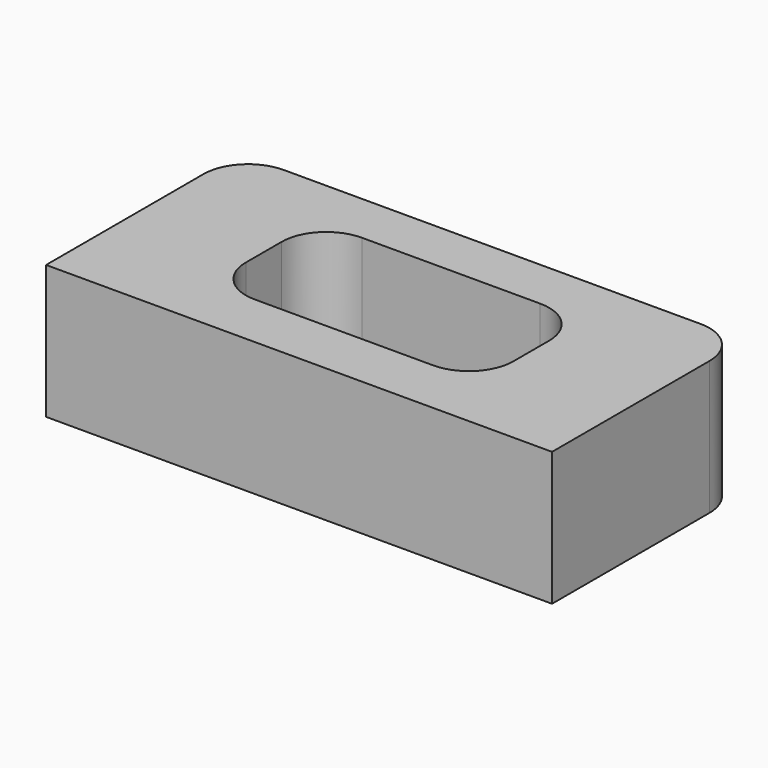
from build123d import *

# Parameters (mm, degrees)
F0_R     = 4
F1_DEPTH = 15
F2_DEPTH = 12


with BuildPart() as f1:
    # F0 (on Top) → F1 (new body)
    with BuildSketch(Plane.XY):
        with BuildLine():
            Line((0, 15), (0, 20.764023))
            Line((0, 20.764023), (-23.369339, 20.764023))
            ThreePointArc((-23.369339, 20.764023), (-26.904873, 19.299557), (-28.369339, 15.764023))
            Line((-28.369339, 15.764023), (-28.369339, -6.304249))
            Line((-28.369339, -6.304249), (0, -6.304249))
            Line((0, -6.304249), (0, 0))
            Line((0, 0), (-10, 0))
            ThreePointArc((-10, 0), (-13.535534, 1.464466), (-15, 5))
            Line((-15, 5), (-15, 10))
            ThreePointArc((-15, 10), (-13.535534, 13.535534), (-10, 15))
            Line((-10, 15), (0, 15))
        make_face()
        with Locations((-22, 0)):
            Circle(F0_R, mode=Mode.SUBTRACT)
        with Locations((-22, 15)):
            Circle(F0_R, mode=Mode.SUBTRACT)
        with BuildLine():
            Line((23.369339, 20.764023), (0, 20.764023))
            Line((0, 20.764023), (0, 15))
            Line((0, 15), (10, 15))
            ThreePointArc((10, 15), (13.535534, 13.535534), (15, 10))
            Line((15, 10), (15, 5))
            ThreePointArc((15, 5), (13.535534, 1.464466), (10, 0))
            Line((10, 0), (0, 0))
            Line((0, 0), (0, -6.304249))
            Line((0, -6.304249), (28.369339, -6.304249))
            Line((28.369339, -6.304249), (28.369339, 15.764023))
            ThreePointArc((28.369339, 15.764023), (26.904873, 19.299557), (23.369339, 20.764023))
        make_face()
        with Locations((22, 0)):
            Circle(F0_R, mode=Mode.SUBTRACT)
        with Locations((22, 15)):
            Circle(F0_R, mode=Mode.SUBTRACT)
        with Locations((-22, 15)):
            Circle(F0_R)
        with Locations((-22, 0)):
            Circle(F0_R)
        with Locations((22, 15)):
            Circle(F0_R)
        with Locations((22, 0)):
            Circle(F0_R)
    extrude(amount=F1_DEPTH)

    # F0 (on Top) → F2 (cut)
    with BuildSketch(Plane.XY):
        with Locations((22, 15)):
            Circle(F0_R)
        with Locations((22, 0)):
            Circle(F0_R)
        with Locations((-22, 15)):
            Circle(F0_R)
        with Locations((-22, 0)):
            Circle(F0_R)
    extrude(amount=F2_DEPTH, mode=Mode.SUBTRACT)


solid = f1.part
